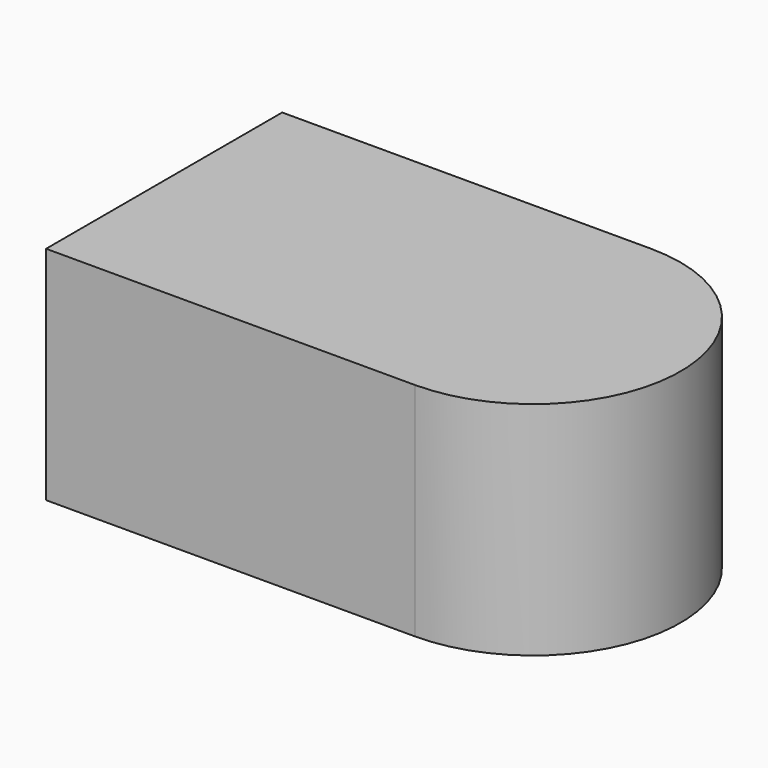
from build123d import *

# Parameters (mm, degrees)
F0_W     = 63.5
F0_H     = 50.8
F1_DEPTH = 38.1
F2_DEPTH = 38.1


with BuildPart() as f1:
    # F0 (on Top) → F1 (new body)
    with BuildSketch(Plane.XY):
        with Locations((-6.086927, 16.082062)):
            Rectangle(F0_W, F0_H)
    extrude(amount=F1_DEPTH)

    # F0 (on Top) → F2 (join)
    with BuildSketch(Plane.XY):
        with Locations((-6.086927, 16.082062)):
            Rectangle(F0_W, F0_H)
        with BuildLine():
            ThreePointArc((25.663073, -9.317938), (51.063073, 16.082062), (25.663073, 41.482062))
            Line((25.663073, 41.482062), (25.663073, -9.317938))
        make_face()
    extrude(amount=F2_DEPTH)


solid = f1.part
